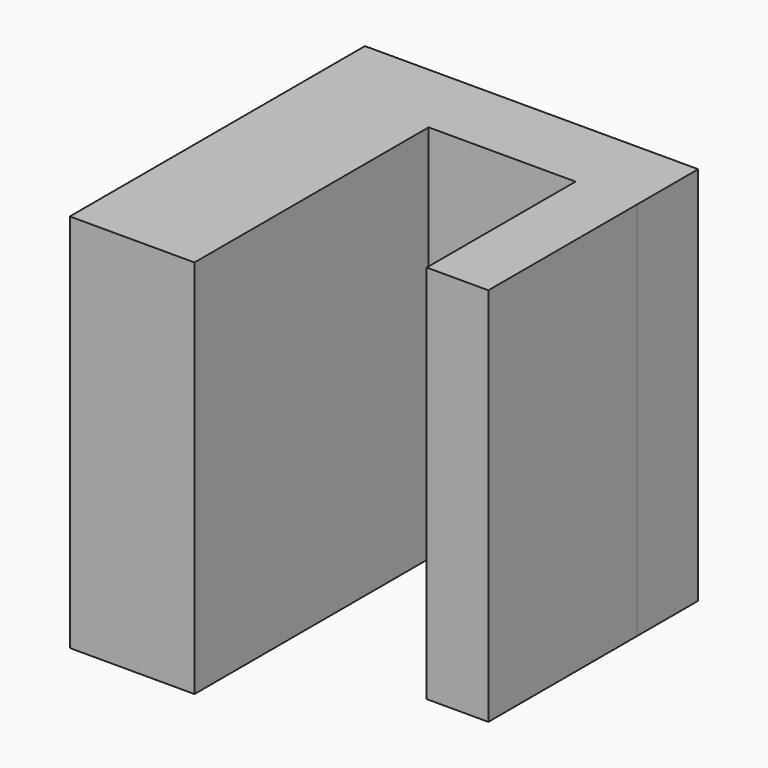
from build123d import *

# Parameters (mm, degrees)
F0_W     = 4.122231
F0_H     = 12.438042
F1_DEPTH = 25.4


with BuildPart() as f1:
    # F0 (on Top) → F1 (new body)
    with BuildSketch(Plane.XY):
        Polygon((-4.166812, -12.32913), (4.166812, -12.32913), (4.166812, 7.23497), (4.166812, 12.32913), (-4.166812, 12.32913), align=None)
        Polygon((4.166812, 12.32913), (4.166812, 7.23497), (13.989017, 7.23497), (18.111248, 7.23497), (18.111248, 12.32913), align=None)
        with Locations((16.050133, 1.015949)):
            Rectangle(F0_W, F0_H)
    extrude(amount=F1_DEPTH)


solid = f1.part
